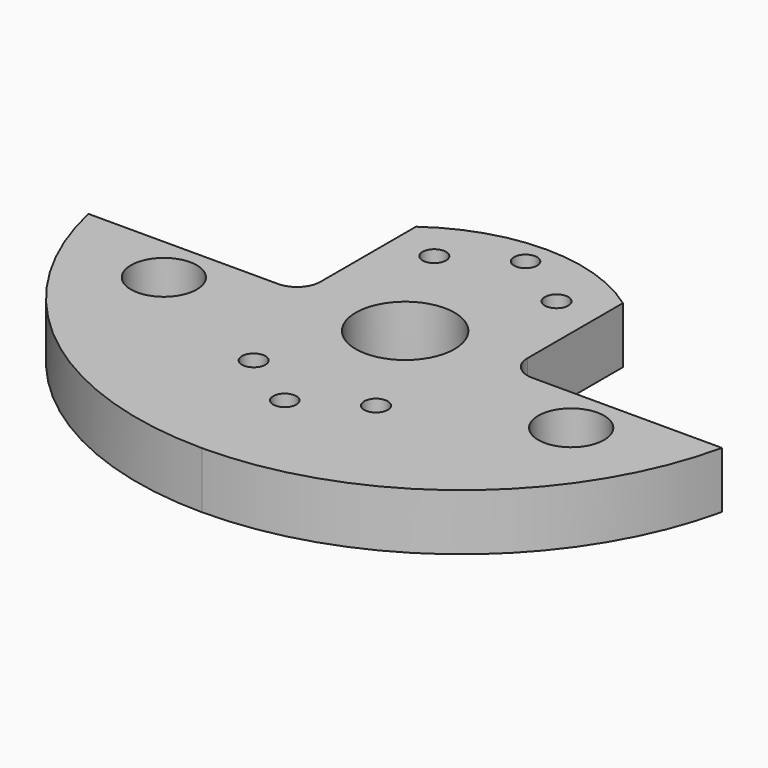
from build123d import *

# Parameters (mm, degrees)
F2_R           = 2.5
F2_R_2         = 10.5
F3_DEPTH       = 12
F4_D           = 3
F4_CBORE_D     = 4.9
F4_CBORE_DEPTH = 7
F5_D           = 14


with BuildPart() as f3:
    # F2 (on offset) → F3 (new body)
    with BuildSketch(Plane.XY.offset(-19)):
        with BuildLine():
            Line((-27, 0), (-67.349833, 0))
            ThreePointArc((-67.349833, 0), (-43.162484, -38.833075), (0, -54))
            ThreePointArc((0, -54), (43.162484, -38.833075), (67.349833, 0))
            Line((67.349833, 0), (27, 0))
            ThreePointArc((27, 0), (23.464466, 1.464466), (22, 5))
            Line((22, 5), (22, 30.368569))
            ThreePointArc((22, 30.368569), (11.563491, 35.672618), (0, 37.5))
            ThreePointArc((0, 37.5), (-11.563491, 35.672618), (-22, 30.368569))
            Line((-22, 30.368569), (-22, 5))
            ThreePointArc((-22, 5), (-23.464466, 1.464466), (-27, 0))
        make_face()
        with Locations((-13, -24)):
            Circle(F2_R, mode=Mode.SUBTRACT)
        with Locations((13, -24)):
            Circle(F2_R, mode=Mode.SUBTRACT)
        with Locations((-13, 24)):
            Circle(F2_R, mode=Mode.SUBTRACT)
        Circle(F2_R_2, mode=Mode.SUBTRACT)
        with Locations((13, 24)):
            Circle(F2_R, mode=Mode.SUBTRACT)
    extrude(amount=-F3_DEPTH)

    # F4 (through all)
    with Locations(Plane.XY.offset(-19)):
        with Locations((0, 32), (0, -32)):
            CounterBoreHole(F4_D / 2, F4_CBORE_D / 2, F4_CBORE_DEPTH)

    # F5 (through all)
    with Locations(Plane.XY):
        with Locations((-43.30127, -10), (43.30127, -10)):
            Hole(F5_D / 2)


solid = f3.part
